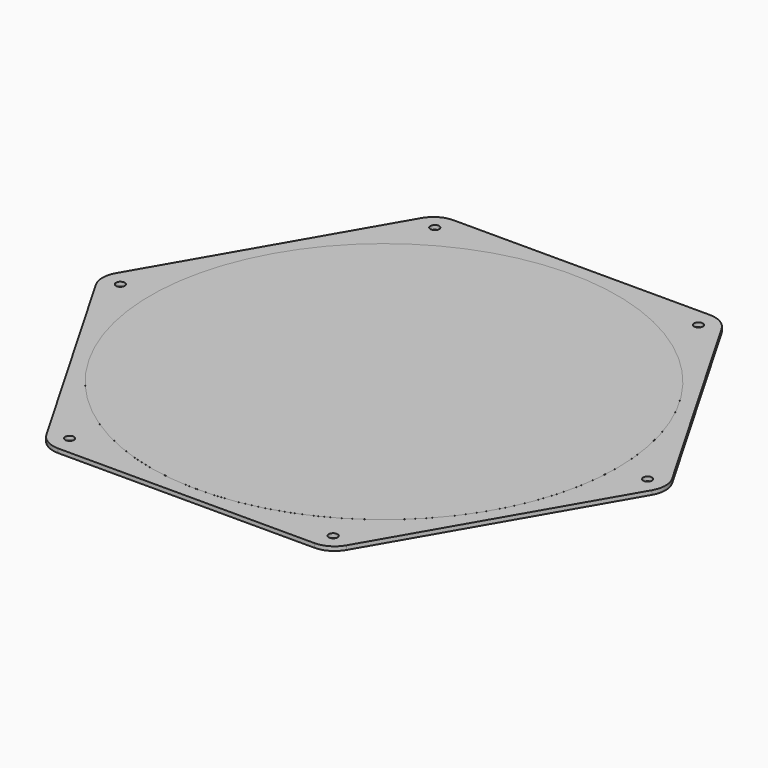
from build123d import *

# Parameters (mm, degrees)
F1_DEPTH = 1.5
F2_R     = 9.2
F3_R     = 85
F4_DEPTH = 0.01
F5_R     = 1.6
F6_DEPTH = 1.5


with BuildPart() as f1:
    # F0 (on Top) → F1 (new body)
    with BuildSketch(Plane.XY):
        Polygon((51.961524, 90), (-51.961524, 90), (-103.923048, 0), (-51.961524, -90), (51.961524, -90), (103.923048, 0), align=None)
    extrude(amount=F1_DEPTH)

    # F2
    f2_edges = [f1.edges().sort_by_distance(p)[0] for p in [
        (-103.923048, 0, 0.75),
        (-51.961524, 90, 0.75),
        (51.961524, 90, 0.75),
        (103.923048, 0, 0.75),
        (51.961524, -90, 0.75),
        (-51.961524, -90, 0.75),
    ]]
    fillet(f2_edges, radius=F2_R)

    # F3 (on face) → F4 (join)
    with BuildSketch(Plane.XY.offset(1.5)):
        Circle(F3_R)
    extrude(amount=F4_DEPTH)

    # F5 (on face) → F6 (cut, through all)
    with BuildSketch(Plane.XY.offset(1.5)):
        with Locations((96, 0)):
            Circle(F5_R)
        with Locations((48, 83.138439)):
            Circle(F5_R)
        with Locations((-48, 83.138439)):
            Circle(F5_R)
        with Locations((-96, 0)):
            Circle(F5_R)
        with Locations((-48, -83.138439)):
            Circle(F5_R)
        with Locations((48, -83.138439)):
            Circle(F5_R)
    extrude(amount=-F6_DEPTH, mode=Mode.SUBTRACT)


solid = f1.part
